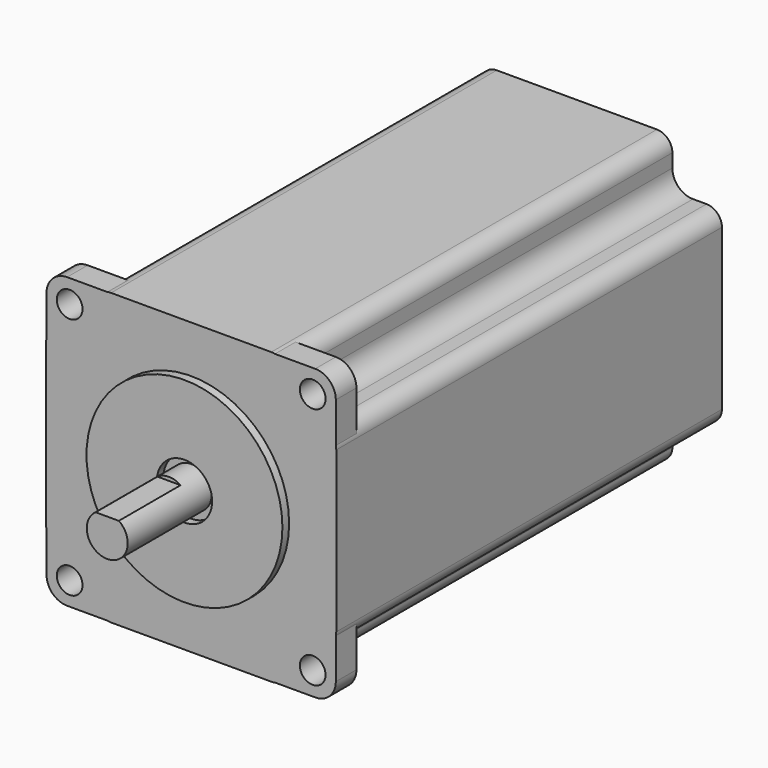
from build123d import *

# Parameters (mm, degrees)
F0_W          = 56.23
F0_H          = 56.23
F0_R          = 2.5
F0_R_2        = 19.04
F0_R_3        = 5.38
F1_DEPTH      = 5
F0_R_4        = 3.98
F2_DEPTH      = 1.63
F3_R          = 4
F4_W          = 37.14
F4_H          = 9.63
F4_H_2        = 37.14
F4_W_2        = 9.63
F5_DEPTH      = 98.9
F6_R          = 4
F7_R          = 3
F8_DEPTH      = 20.39
F8_DEPTH_BACK = 94.9
F9_W          = 15
F9_H          = 0.7
F10_DEPTH     = 56.316
F11_START     = -93.6
F5_FACE_R     = 5.38
F11_DEPTH     = 5.3
F12_DEPTH     = 5.2
F13_R         = 0.1742671658
F14_DEPTH     = 0.5
F14_TAPER     = -3


with BuildPart() as f1:
    # F0 (on Front) → F1 (new body)
    with BuildSketch(Plane.XZ):
        Rectangle(F0_W, F0_H)
        with Locations((-23.62, -23.62)):
            Circle(F0_R, mode=Mode.SUBTRACT)
        with Locations((23.62, -23.62)):
            Circle(F0_R, mode=Mode.SUBTRACT)
        with Locations((-23.62, 23.62)):
            Circle(F0_R, mode=Mode.SUBTRACT)
        Circle(F0_R_2, mode=Mode.SUBTRACT)
        with Locations((23.62, 23.62)):
            Circle(F0_R, mode=Mode.SUBTRACT)
        Circle(F0_R_2)
        Circle(F0_R_3, mode=Mode.SUBTRACT)
    extrude(amount=-F1_DEPTH)

    # F0 (on Front) → F2 (join)
    with BuildSketch(Plane.XZ):
        Circle(F0_R_2)
        Circle(F0_R_3, mode=Mode.SUBTRACT)
    extrude(amount=F2_DEPTH)

    # F3
    f3_edges = [f1.edges().sort_by_distance(p)[0] for p in [
        (-28.115, 2.5, 28.115),
        (28.115, 2.5, 28.115),
        (28.115, 2.5, -28.115),
        (-28.115, 2.5, -28.115),
    ]]
    fillet(f3_edges, radius=F3_R)

    # F4 (on Front) → F5 (join)
    with BuildSketch(Plane.XZ):
        with Locations((0, 23.385)):
            Rectangle(F4_W, F4_H)
        Rectangle(F4_W, F4_H_2)
        with Locations((-23.385, 0)):
            Rectangle(F4_W_2, F4_H_2)
        with Locations((23.385, 0)):
            Rectangle(F4_W_2, F4_H_2)
        with Locations((0, -23.385)):
            Rectangle(F4_W, F4_H)
    extrude(amount=-F5_DEPTH)

    # F6
    f6_edges = [f1.edges().sort_by_distance(p)[0] for p in [
        (18.57, 51.95, 18.57),
        (-18.57, 51.95, 18.57),
        (-18.57, 51.95, -18.57),
        (18.57, 51.95, -18.57),
    ]]
    fillet(f6_edges, radius=F6_R)

    # F7
    f7_edges = [f1.edges().sort_by_distance(p)[0] for p in [
        (18.57, 49.45, 28.2),
        (28.2, 49.45, 18.57),
        (28.2, 49.45, -18.57),
        (18.57, 49.45, -28.2),
        (-18.57, 49.45, -28.2),
        (-28.2, 49.45, -18.57),
        (-28.2, 49.45, 18.57),
        (-18.57, 49.45, 28.2),
    ]]
    fillet(f7_edges, radius=F7_R)


with BuildPart() as f1b:
    # F0 (on Front) → F1, piece 2 (new body)
    with BuildSketch(Plane.XZ):
        Circle(F0_R_4)
    extrude(amount=-F1_DEPTH)


with BuildPart() as f8:
    # F0 (on Front) → F8 (new body, two sides)
    with BuildSketch(Plane.XZ) as f8_sk:
        Circle(F0_R_4)
    extrude(amount=F8_DEPTH)
    extrude(f8_sk.sketch, amount=-F8_DEPTH_BACK)

    # F9 (on face) → F10 (cut, through all)
    with BuildSketch(Plane(origin=(-28.115, 0, 0), x_dir=(0, -1, 0), z_dir=(-1, 0, 0))):
        with Locations((12.89, 3.63)):
            Rectangle(F9_W, F9_H)
    extrude(amount=-F10_DEPTH, mode=Mode.SUBTRACT)


with BuildPart() as f11_tool:
    # F5_face (on face) → F11 (new body)
    with BuildSketch(Plane.XZ.offset(F11_START)):
        Circle(F5_FACE_R)
    extrude(amount=-F11_DEPTH)


with BuildPart() as f1_1:
    add(f1.part)

    # F11: cut by f11_tool
    add(f11_tool.part, mode=Mode.SUBTRACT)

    # F12 (cut): a face of the model
    f12_faces = [f1_1.faces().sort_by_distance(p)[0] for p in [
        (-17.7723835508, 98.9, 23.885),
    ]]
    extrude(f12_faces, amount=-F12_DEPTH, mode=Mode.SUBTRACT)

    # F13 (on face) → F14 (cut)
    with BuildSketch(Plane.XZ.offset(20.39)):
        Circle(F13_R)
    extrude(amount=F14_DEPTH, taper=F14_TAPER, mode=Mode.SUBTRACT)


with BuildPart() as f8_1:
    add(f8.part)

    # F11: cut by f11_tool
    add(f11_tool.part, mode=Mode.SUBTRACT)


solid = Compound([f1b.part, f1_1.part, f8_1.part])
